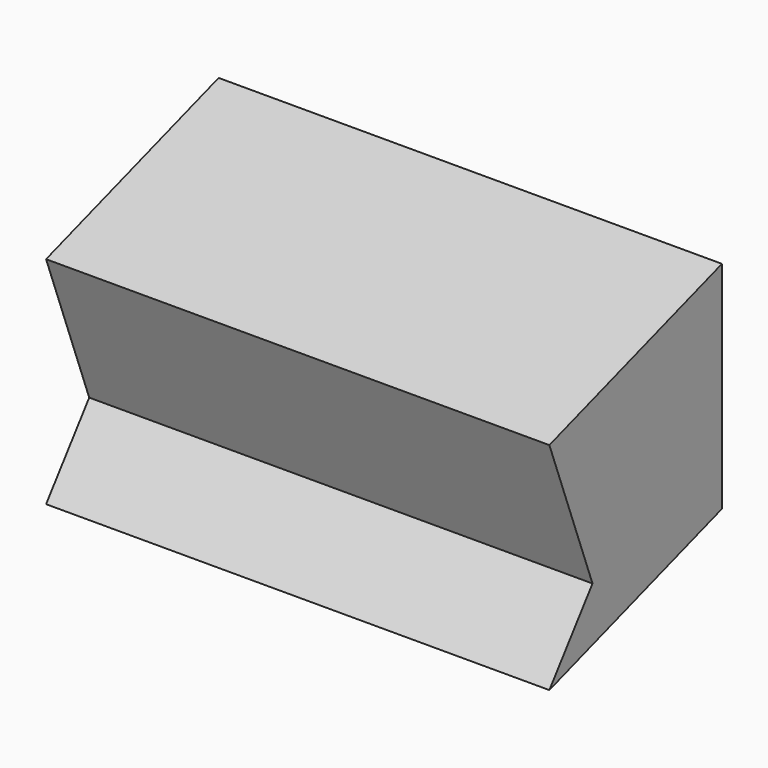
from build123d import *

# Parameters (mm, degrees)
F0_W     = 7
F0_H     = 3
F1_DEPTH = 4
F3_DEPTH = 25


with BuildPart() as f1:
    # F0 (on Top) → F1 (new body)
    with BuildSketch(Plane.XY):
        with Locations((3.5, 1.5)):
            Rectangle(F0_W, F0_H)
    extrude(amount=F1_DEPTH)

    # F2 (on face) → F3 (cut)
    with BuildSketch(Plane.YZ.offset(7)):
        Polygon((0, 4), (0, 3), (3, 4), align=None)
        Polygon((0, 3), (0, 0), (0.75, 1), align=None)
        Polygon((3, 1), (0, 0), (3, 0), align=None)
    extrude(amount=-F3_DEPTH, mode=Mode.SUBTRACT)


solid = f1.part
